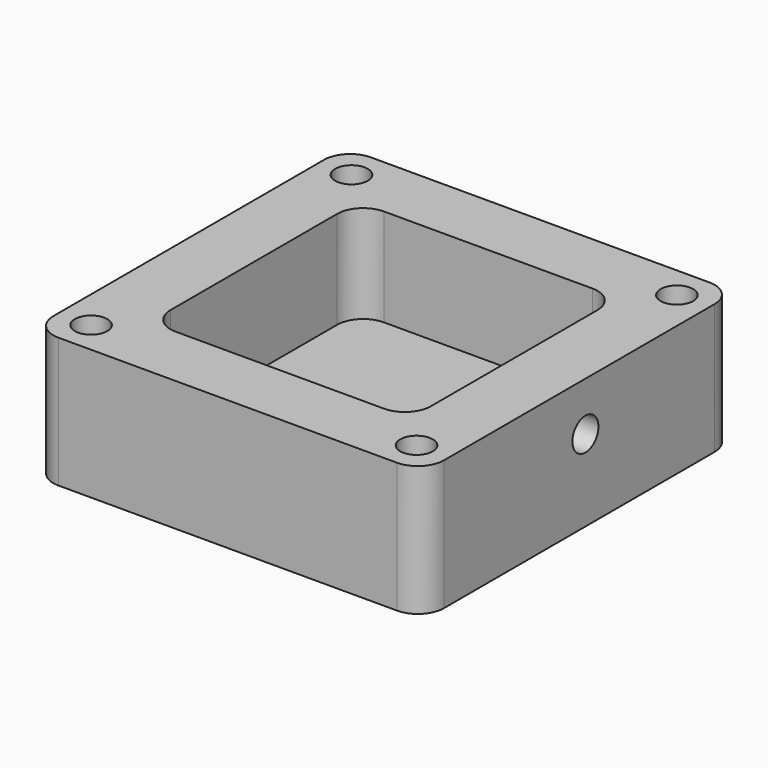
from build123d import *

# Parameters (mm, degrees)
F0_W     = 76.2
F0_H     = 76.2
F1_DEPTH = 25.4
F2_W     = 50.8
F2_H     = 50.8
F2_R     = 3.175
F3_DEPTH = 19.05
F4_R     = 5.08
F5_R     = 3.175
F6_DEPTH = 12.7
F7_DEPTH = 6.35


with BuildPart() as f1:
    # F0 (on Top) → F1 (new body)
    with BuildSketch(Plane.XY):
        with Locations((-0.2496400848, -1.4978470281)):
            Rectangle(F0_W, F0_H)
    extrude(amount=F1_DEPTH)

    # F2 (on face) → F3 (cut)
    with BuildSketch(Plane.XY.offset(25.4)):
        with Locations((-0.2496400848, -1.4978470281)):
            Rectangle(F2_W, F2_H)
        with Locations((-31.9996400848, -33.2478470281)):
            Circle(F2_R)
        with Locations((31.5003599152, -33.2478470281)):
            Circle(F2_R)
        with Locations((31.5003599152, 30.2521529719)):
            Circle(F2_R)
        with Locations((-31.9996400848, 30.2521529719)):
            Circle(F2_R)
    extrude(amount=-F3_DEPTH, mode=Mode.SUBTRACT)

    # F4
    f4_edges = [f1.edges().sort_by_distance(p)[0] for p in [
        (-38.34964, 36.602153, 12.7),
        (37.85036, 36.602153, 12.7),
        (37.85036, -39.597847, 12.7),
        (-38.34964, -39.597847, 12.7),
        (25.15036, 23.902153, 15.875),
        (25.15036, -26.897847, 15.875),
        (-25.64964, -26.897847, 15.875),
        (-25.64964, 23.902153, 15.875),
    ]]
    fillet(f4_edges, radius=F4_R)

    # F5 (on face) → F6 (cut, through all)
    with BuildSketch(Plane(origin=(25.1503599152, 0, 0), x_dir=(0, -1, 0), z_dir=(-1, 0, 0))):
        with Locations((0, 15.875)):
            Circle(F5_R)
    extrude(amount=-F6_DEPTH, mode=Mode.SUBTRACT)

    # F7 (cut, through all): faces of the model
    f7_faces = [f1.faces().sort_by_distance(p)[0] for p in [
        (31.5003599152, 30.2521529719, 6.35),
        (31.5003599152, -33.2478470281, 6.35),
        (-31.9996400848, 30.2521529719, 6.35),
        (-31.9996400848, -33.2478470281, 6.35),
    ]]
    extrude(f7_faces, amount=-F7_DEPTH, mode=Mode.SUBTRACT)


solid = f1.part
